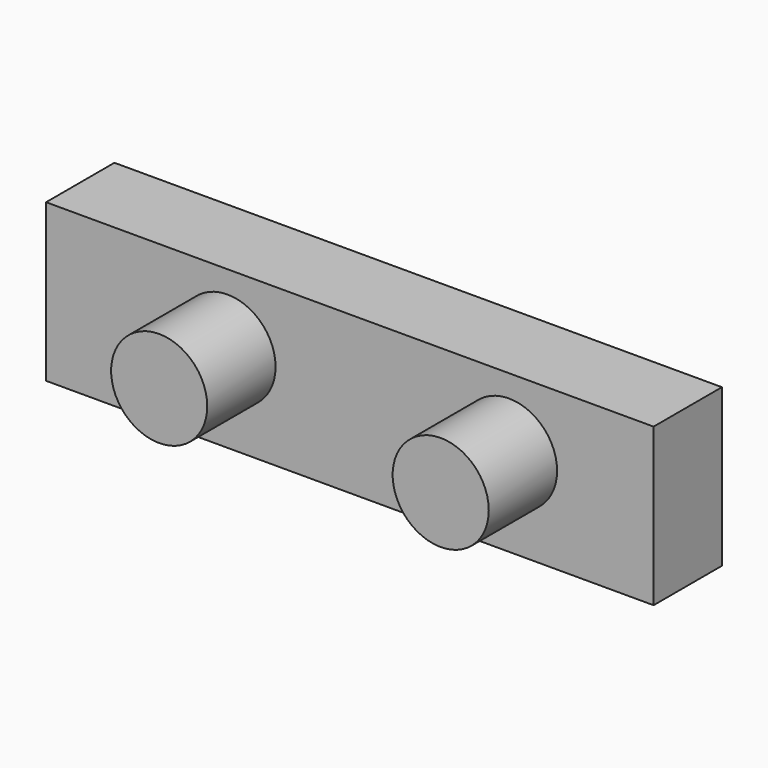
from build123d import *

# Parameters (mm, degrees)
F0_R     = 14.2875
F1_DEPTH = 25.4
F2_W     = 180.639639
F2_H     = 46.757205
F3_DEPTH = 25.4


with BuildPart() as f1:
    # F0 (on Front) → F1 (new body)
    with BuildSketch(Plane.XZ):
        with Locations((-19.619927, 22.808164)):
            Circle(F0_R)
        with Locations((64.091761, 22.808164)):
            Circle(F0_R)
    extrude(amount=F1_DEPTH)


with BuildPart() as f3:
    # F2 (on Front) → F3 (new body)
    with BuildSketch(Plane.XZ):
        with Locations((16.750366, 20.32922)):
            Rectangle(F2_W, F2_H)
    extrude(amount=-F3_DEPTH)


solid = Compound([f1.part, f3.part])
